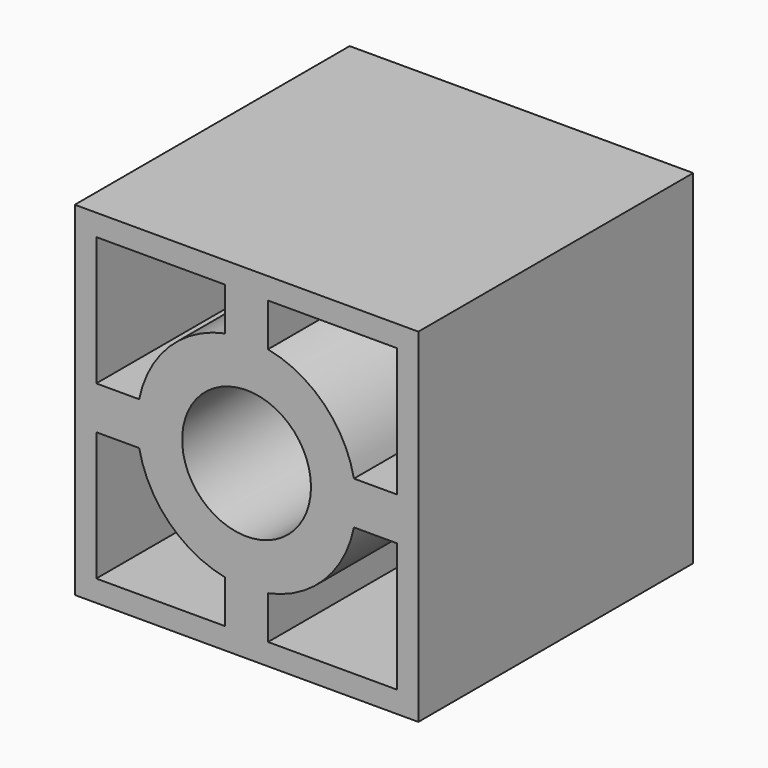
from build123d import *

# Parameters (mm, degrees)
F0_W     = 50.8
F0_H     = 50.8
F1_DEPTH = 50.8
F2_R     = 9.525
F3_DEPTH = 50.801


with BuildPart() as f1:
    # F0 (on Front) → F1 (new body)
    with BuildSketch(Plane.XZ):
        with Locations((25.4, 25.4)):
            Rectangle(F0_W, F0_H)
    extrude(amount=F1_DEPTH)

    # F2 (on face) → F3 (cut, through all)
    with BuildSketch(Plane.XZ.offset(50.8)):
        with BuildLine():
            Line((22.225, 47.625), (3.175, 47.625))
            Line((3.175, 47.625), (3.175, 28.575))
            Line((3.175, 28.575), (9.525, 28.575))
            ThreePointArc((9.525, 28.575), (13.952375, 36.847625), (22.225, 41.275))
            Line((22.225, 41.275), (22.225, 47.625))
        make_face()
        with BuildLine():
            Line((47.625, 47.625), (28.575, 47.625))
            Line((28.575, 47.625), (28.575, 41.275))
            ThreePointArc((28.575, 41.275), (36.847625, 36.847625), (41.275, 28.575))
            Line((41.275, 28.575), (47.625, 28.575))
            Line((47.625, 28.575), (47.625, 47.625))
        make_face()
        with BuildLine():
            Line((22.225, 3.175), (22.225, 9.525))
            ThreePointArc((22.225, 9.525), (13.952375, 13.952375), (9.525, 22.225))
            Line((9.525, 22.225), (3.175, 22.225))
            Line((3.175, 22.225), (3.175, 3.175))
            Line((3.175, 3.175), (22.225, 3.175))
        make_face()
        with BuildLine():
            Line((47.625, 22.225), (41.275, 22.225))
            ThreePointArc((41.275, 22.225), (36.847625, 13.952375), (28.575, 9.525))
            Line((28.575, 9.525), (28.575, 3.175))
            Line((28.575, 3.175), (47.625, 3.175))
            Line((47.625, 3.175), (47.625, 22.225))
        make_face()
        with Locations((25.4, 25.4)):
            Circle(F2_R)
    extrude(amount=-F3_DEPTH, mode=Mode.SUBTRACT)


solid = f1.part
